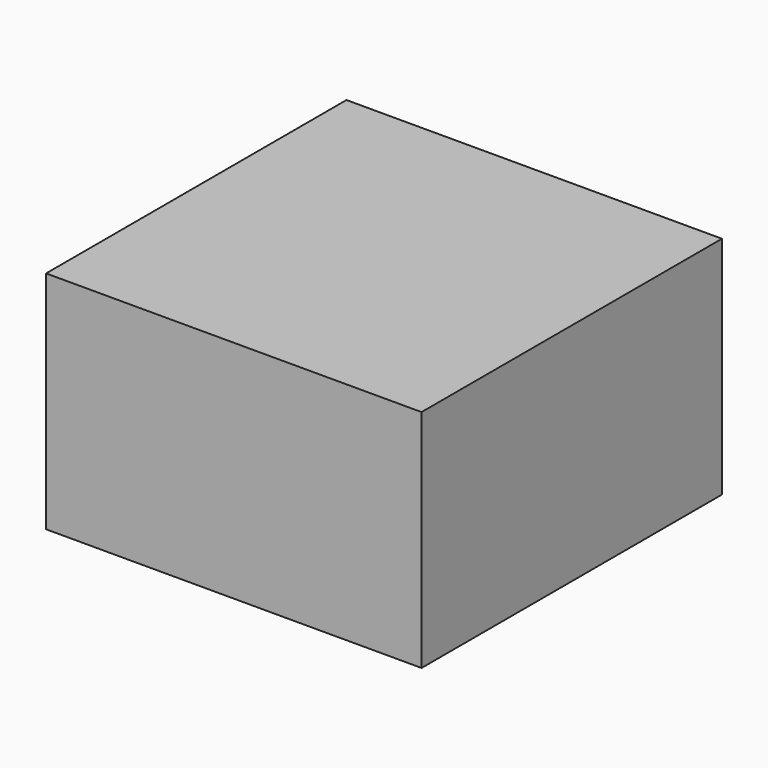
from build123d import *

# Parameters (mm, degrees)
F0_W     = 100
F0_H     = 100
F1_DEPTH = 60
F5_DEPTH = 90


with BuildPart() as f1:
    # F0 (on Top) → F1 (new body)
    with BuildSketch(Plane.XY):
        with Locations((-50, 50)):
            Rectangle(F0_W, F0_H)
    extrude(amount=F1_DEPTH)

    # F4 (on offset) → F5 (cut)
    with BuildSketch(Plane(origin=(0, 95, 0), x_dir=(-1, 0, 0), z_dir=(0, 1, 0))):
        Polygon((49.9035641551, 59.3563504517), (4.9081675543, 0), (94.8989607559, 0), align=None)
    extrude(amount=-F5_DEPTH, mode=Mode.SUBTRACT)


solid = f1.part
